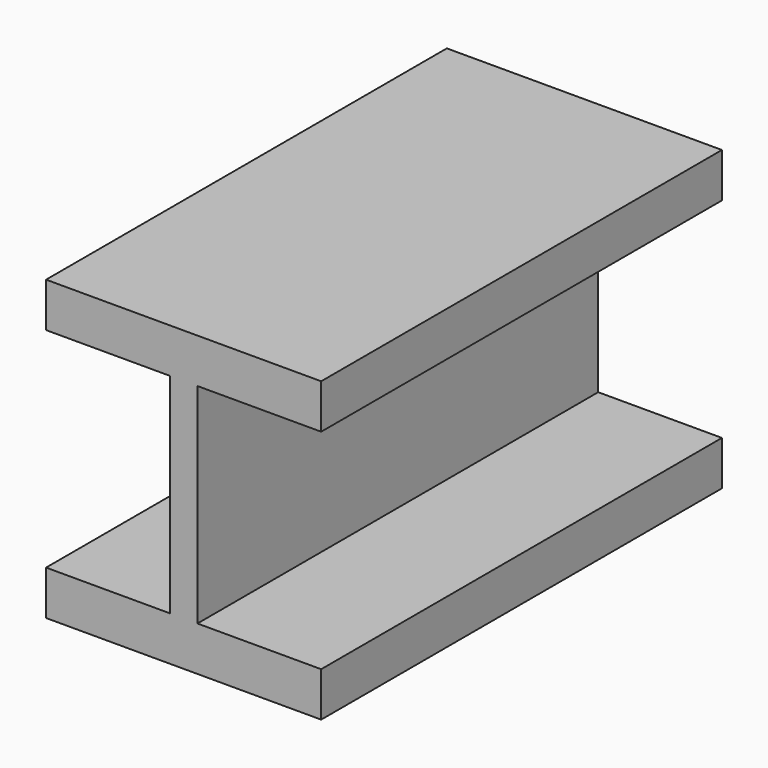
from build123d import *

# Parameters (mm, degrees)
F1_DEPTH = 762


with BuildPart() as f1:
    # F0 (on Front) → F1 (new body)
    with BuildSketch(Plane.XZ):
        Polygon((-21.0185, 0), (0, 0), (0, 226.568), (-209.2325, 226.568), (-209.2325, 159.004), (-21.0185, 159.004), align=None)
    extrude(amount=-F1_DEPTH)

    # F2: F1 across plane


with BuildPart() as f1_1:
    add(f1.part)
    add(f1.part.mirror(Plane.XY))

    # F3: F1 across plane


with BuildPart() as f1_2:
    add(f1_1.part)
    add(f1_1.part.mirror(Plane.YZ))


solid = f1_2.part
